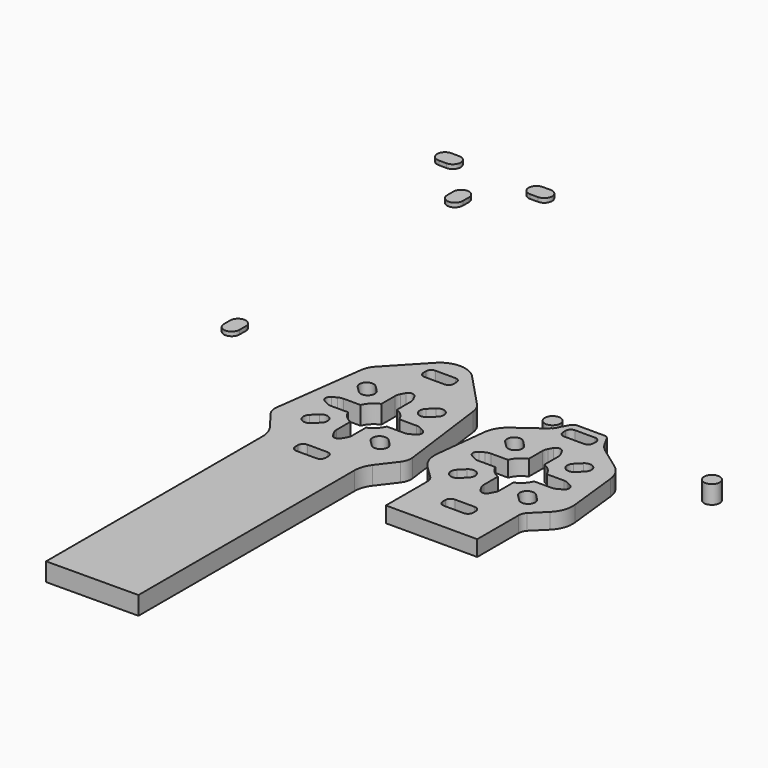
from build123d import *

# Parameters (mm, degrees)
F0_R     = 1.5
F1_DEPTH = 3.5
F3_DEPTH = 0.8
F5_DEPTH = 3


with BuildPart() as f1:
    # F0 (on Top) → F1 (new body)
    with BuildSketch(Plane.XY):
        with Locations((-15.25, 15.25)):
            Circle(F0_R)
        with Locations((15.25, 15.25)):
            Circle(F0_R)
        with BuildLine():
            Line((-24.117, -7.133688), (-26.392267, 10.177007))
            ThreePointArc((-26.392267, 10.177007), (-26.744927, 11.371718), (-27.448004, 12.400011))
            Line((-27.448004, 12.400011), (-33.622609, 18.947855))
            ThreePointArc((-33.622609, 18.947855), (-37.128731, 20.460747), (-40.634853, 18.947855))
            Line((-40.634853, 18.947855), (-46.809458, 12.400011))
            ThreePointArc((-46.809458, 12.400011), (-47.512534, 11.371718), (-47.865195, 10.177007))
            Line((-47.865195, 10.177007), (-50.140462, -7.133688))
            ThreePointArc((-50.140462, -7.133688), (-50.065993, -8.292947), (-49.556716, -9.337009))
            Line((-49.556716, -9.337009), (-46.94752, -12.778758))
            ThreePointArc((-46.94752, -12.778758), (-46.192655, -14.205994), (-45.931972, -15.799377))
            Line((-45.931972, -15.799377), (-45.931972, -21.649615))
            Line((-45.931972, -21.649615), (-45.931972, -67.606897))
            Line((-45.931972, -67.606897), (-28.325489, -67.508658))
            Line((-28.325489, -67.508658), (-28.325489, -21.649615))
            Line((-28.325489, -21.649615), (-28.325489, -15.799377))
            ThreePointArc((-28.325489, -15.799377), (-28.064807, -14.205994), (-27.309941, -12.778758))
            Line((-27.309941, -12.778758), (-24.700746, -9.337009))
            ThreePointArc((-24.700746, -9.337009), (-24.191469, -8.292947), (-24.117, -7.133688))
        make_face()
        with BuildLine():
            ThreePointArc((-40.033675, -14.705955), (-39.740781, -13.998848), (-39.033675, -13.705955))
            Line((-39.033675, -13.705955), (-35.223787, -13.705955))
            ThreePointArc((-35.223787, -13.705955), (-34.51668, -13.998848), (-34.223787, -14.705955))
            Line((-34.223787, -14.705955), (-34.223787, -15.318013))
            ThreePointArc((-34.223787, -15.318013), (-34.51668, -16.02512), (-35.223787, -16.318013))
            Line((-35.223787, -16.318013), (-39.033675, -16.318013))
            ThreePointArc((-39.033675, -16.318013), (-39.740781, -16.02512), (-40.033675, -15.318013))
            Line((-40.033675, -15.318013), (-40.033675, -14.705955))
        make_face(mode=Mode.SUBTRACT)
        with BuildLine():
            Line((-44.800839, -5.978532), (-43.740179, -4.917872))
            ThreePointArc((-43.740179, -4.917872), (-41.830991, -4.917872), (-41.830991, -6.827061))
            Line((-41.830991, -6.827061), (-42.891651, -7.887721))
            ThreePointArc((-42.891651, -7.887721), (-44.800839, -7.887721), (-44.800839, -5.978532))
        make_face(mode=Mode.SUBTRACT)
        with BuildLine():
            ThreePointArc((-32.426471, -6.827061), (-32.426471, -4.917872), (-30.517282, -4.917872))
            Line((-30.517282, -4.917872), (-29.456622, -5.978532))
            ThreePointArc((-29.456622, -5.978532), (-29.456622, -7.887721), (-31.365811, -7.887721))
            Line((-31.365811, -7.887721), (-32.426471, -6.827061))
        make_face(mode=Mode.SUBTRACT)
        with BuildLine():
            Line((-42.891651, 7.456496), (-41.830991, 6.395836))
            ThreePointArc((-41.830991, 6.395836), (-41.830991, 4.486648), (-43.740179, 4.486648))
            Line((-43.740179, 4.486648), (-44.800839, 5.547308))
            ThreePointArc((-44.800839, 5.547308), (-44.800839, 7.456496), (-42.891651, 7.456496))
        make_face(mode=Mode.SUBTRACT)
        with BuildLine():
            ThreePointArc((-33.420632, -1.715612), (-34.300304, -3.044039), (-35.628731, -3.923711))
            Line((-35.628731, -3.923711), (-35.628731, -7.19803))
            ThreePointArc((-35.628731, -7.19803), (-35.692517, -7.699105), (-35.879807, -8.168218))
            Line((-35.879807, -8.168218), (-36.316788, -8.955948))
            ThreePointArc((-36.316788, -8.955948), (-37.128731, -9.434041), (-37.940674, -8.955948))
            Line((-37.940674, -8.955948), (-38.377655, -8.168218))
            ThreePointArc((-38.377655, -8.168218), (-38.564945, -7.699105), (-38.628731, -7.19803))
            Line((-38.628731, -7.19803), (-38.628731, -3.923711))
            ThreePointArc((-38.628731, -3.923711), (-39.957158, -3.044039), (-40.83683, -1.715612))
            Line((-40.83683, -1.715612), (-44.111149, -1.715612))
            ThreePointArc((-44.111149, -1.715612), (-44.612224, -1.651826), (-45.081337, -1.464536))
            Line((-45.081337, -1.464536), (-45.869067, -1.027555))
            ThreePointArc((-45.869067, -1.027555), (-46.34716, -0.215612), (-45.869067, 0.596331))
            Line((-45.869067, 0.596331), (-45.081337, 1.033312))
            ThreePointArc((-45.081337, 1.033312), (-44.612224, 1.220602), (-44.111149, 1.284388))
            Line((-44.111149, 1.284388), (-40.83683, 1.284388))
            ThreePointArc((-40.83683, 1.284388), (-39.957158, 2.612815), (-38.628731, 3.492487))
            Line((-38.628731, 3.492487), (-38.628731, 6.766805))
            ThreePointArc((-38.628731, 6.766805), (-38.564945, 7.267881), (-38.377655, 7.736994))
            Line((-38.377655, 7.736994), (-37.940674, 8.524724))
            ThreePointArc((-37.940674, 8.524724), (-37.128731, 9.002817), (-36.316788, 8.524724))
            Line((-36.316788, 8.524724), (-35.879807, 7.736994))
            ThreePointArc((-35.879807, 7.736994), (-35.692517, 7.267881), (-35.628731, 6.766805))
            Line((-35.628731, 6.766805), (-35.628731, 3.492487))
            ThreePointArc((-35.628731, 3.492487), (-34.300304, 2.612815), (-33.420632, 1.284388))
            Line((-33.420632, 1.284388), (-30.146313, 1.284388))
            ThreePointArc((-30.146313, 1.284388), (-29.645238, 1.220602), (-29.176125, 1.033312))
            Line((-29.176125, 1.033312), (-28.388395, 0.596331))
            ThreePointArc((-28.388395, 0.596331), (-27.910302, -0.215612), (-28.388395, -1.027555))
            Line((-28.388395, -1.027555), (-29.176125, -1.464536))
            ThreePointArc((-29.176125, -1.464536), (-29.645238, -1.651826), (-30.146313, -1.715612))
            Line((-30.146313, -1.715612), (-33.420632, -1.715612))
        make_face(mode=Mode.SUBTRACT)
        with BuildLine():
            ThreePointArc((-35.223787, 16.947617), (-34.51668, 16.654724), (-34.223787, 15.947617))
            Line((-34.223787, 15.947617), (-34.223787, 15.335559))
            ThreePointArc((-34.223787, 15.335559), (-34.51668, 14.628452), (-35.223787, 14.335559))
            Line((-35.223787, 14.335559), (-39.033675, 14.335559))
            ThreePointArc((-39.033675, 14.335559), (-39.740781, 14.628452), (-40.033675, 15.335559))
            Line((-40.033675, 15.335559), (-40.033675, 15.947617))
            ThreePointArc((-40.033675, 15.947617), (-39.740781, 16.654724), (-39.033675, 16.947617))
            Line((-39.033675, 16.947617), (-35.223787, 16.947617))
        make_face(mode=Mode.SUBTRACT)
        with BuildLine():
            ThreePointArc((-30.517282, 4.486648), (-32.426471, 4.486648), (-32.426471, 6.395836))
            Line((-32.426471, 6.395836), (-31.365811, 7.456496))
            ThreePointArc((-31.365811, 7.456496), (-29.456622, 7.456496), (-29.456622, 5.547308))
            Line((-29.456622, 5.547308), (-30.517282, 4.486648))
        make_face(mode=Mode.SUBTRACT)
    extrude(amount=F1_DEPTH)

    # F4 (on Top) → F5 (join)
    with BuildSketch(Plane.XY):
        with BuildLine():
            ThreePointArc((-18.67353, -9.737199), (-18.296635, -10.356468), (-18.165249, -11.069406))
            Line((-18.165249, -11.069406), (-18.165249, -21))
            Line((-18.165249, -21), (-0.676106, -21))
            Line((-0.676106, -21), (-0.676106, -11.069406))
            ThreePointArc((-0.676106, -11.069406), (-0.54472, -10.356468), (-0.167825, -9.737199))
            Line((-0.167825, -9.737199), (2.307295, -7.294774))
            ThreePointArc((2.307295, -7.294774), (3.508246, -5.405714), (3.764575, -3.18195))
            Line((3.764575, -3.18195), (2.65911, 6.736242))
            ThreePointArc((2.65911, 6.736242), (2.01092, 8.698055), (0.624894, 10.230305))
            Line((0.624894, 10.230305), (-3.564298, 13.267746))
            ThreePointArc((-3.564298, 13.267746), (-4.401689, 14.020201), (-5.049508, 14.940929))
            Line((-5.049508, 14.940929), (-5.935708, 16.561889))
            ThreePointArc((-5.935708, 16.561889), (-6.303091, 16.942332), (-6.813139, 17.082186))
            Line((-6.813139, 17.082186), (-12.028217, 17.082186))
            ThreePointArc((-12.028217, 17.082186), (-12.538264, 16.942332), (-12.905648, 16.561889))
            Line((-12.905648, 16.561889), (-13.791847, 14.940929))
            ThreePointArc((-13.791847, 14.940929), (-14.439667, 14.020201), (-15.277057, 13.267746))
            Line((-15.277057, 13.267746), (-19.466249, 10.230305))
            ThreePointArc((-19.466249, 10.230305), (-20.852275, 8.698055), (-21.500465, 6.736242))
            Line((-21.500465, 6.736242), (-22.605931, -3.18195))
            ThreePointArc((-22.605931, -3.18195), (-22.349602, -5.405714), (-21.148651, -7.294774))
            Line((-21.148651, -7.294774), (-18.67353, -9.737199))
        make_face()
        with BuildLine():
            ThreePointArc((-12.325621, -14.056339), (-12.032728, -13.349233), (-11.325621, -13.056339))
            Line((-11.325621, -13.056339), (-7.515734, -13.056339))
            ThreePointArc((-7.515734, -13.056339), (-6.808627, -13.349233), (-6.515734, -14.056339))
            Line((-6.515734, -14.056339), (-6.515734, -14.668398))
            ThreePointArc((-6.515734, -14.668398), (-6.808627, -15.375505), (-7.515734, -15.668398))
            Line((-7.515734, -15.668398), (-11.325621, -15.668398))
            ThreePointArc((-11.325621, -15.668398), (-12.032728, -15.375505), (-12.325621, -14.668398))
            Line((-12.325621, -14.668398), (-12.325621, -14.056339))
        make_face(mode=Mode.SUBTRACT)
        with BuildLine():
            Line((-17.092786, -5.328917), (-16.032126, -4.268257))
            ThreePointArc((-16.032126, -4.268257), (-14.122938, -4.268257), (-14.122938, -6.177445))
            Line((-14.122938, -6.177445), (-15.183598, -7.238105))
            ThreePointArc((-15.183598, -7.238105), (-17.092786, -7.238105), (-17.092786, -5.328917))
        make_face(mode=Mode.SUBTRACT)
        with BuildLine():
            ThreePointArc((-4.718418, -6.177445), (-4.718418, -4.268257), (-2.809229, -4.268257))
            Line((-2.809229, -4.268257), (-1.748569, -5.328917))
            ThreePointArc((-1.748569, -5.328917), (-1.748569, -7.238105), (-3.657757, -7.238105))
            Line((-3.657757, -7.238105), (-4.718418, -6.177445))
        make_face(mode=Mode.SUBTRACT)
        with BuildLine():
            ThreePointArc((-5.712579, -1.065997), (-6.592251, -2.394424), (-7.920678, -3.274096))
            Line((-7.920678, -3.274096), (-7.920678, -6.548414))
            ThreePointArc((-7.920678, -6.548414), (-7.984464, -7.049489), (-8.171754, -7.518603))
            Line((-8.171754, -7.518603), (-8.608735, -8.306332))
            ThreePointArc((-8.608735, -8.306332), (-9.420678, -8.784425), (-10.232621, -8.306332))
            Line((-10.232621, -8.306332), (-10.669602, -7.518603))
            ThreePointArc((-10.669602, -7.518603), (-10.856892, -7.049489), (-10.920678, -6.548414))
            Line((-10.920678, -6.548414), (-10.920678, -3.274096))
            ThreePointArc((-10.920678, -3.274096), (-12.249105, -2.394424), (-13.128777, -1.065997))
            Line((-13.128777, -1.065997), (-16.403095, -1.065997))
            ThreePointArc((-16.403095, -1.065997), (-16.90417, -1.00221), (-17.373284, -0.814921))
            Line((-17.373284, -0.814921), (-18.161014, -0.37794))
            ThreePointArc((-18.161014, -0.37794), (-18.639107, 0.434003), (-18.161014, 1.245946))
            Line((-18.161014, 1.245946), (-17.373284, 1.682927))
            ThreePointArc((-17.373284, 1.682927), (-16.90417, 1.870217), (-16.403095, 1.934003))
            Line((-16.403095, 1.934003), (-13.128777, 1.934003))
            ThreePointArc((-13.128777, 1.934003), (-12.249105, 3.26243), (-10.920678, 4.142103))
            Line((-10.920678, 4.142103), (-10.920678, 7.416421))
            ThreePointArc((-10.920678, 7.416421), (-10.856892, 7.917496), (-10.669602, 8.386609))
            Line((-10.669602, 8.386609), (-10.232621, 9.174339))
            ThreePointArc((-10.232621, 9.174339), (-9.420678, 9.652432), (-8.608735, 9.174339))
            Line((-8.608735, 9.174339), (-8.171754, 8.386609))
            ThreePointArc((-8.171754, 8.386609), (-7.984464, 7.917496), (-7.920678, 7.416421))
            Line((-7.920678, 7.416421), (-7.920678, 4.142103))
            ThreePointArc((-7.920678, 4.142103), (-6.592251, 3.26243), (-5.712579, 1.934003))
            Line((-5.712579, 1.934003), (-2.43826, 1.934003))
            ThreePointArc((-2.43826, 1.934003), (-1.937185, 1.870217), (-1.468072, 1.682927))
            Line((-1.468072, 1.682927), (-0.680342, 1.245946))
            ThreePointArc((-0.680342, 1.245946), (-0.202249, 0.434003), (-0.680342, -0.37794))
            Line((-0.680342, -0.37794), (-1.468072, -0.814921))
            ThreePointArc((-1.468072, -0.814921), (-1.937185, -1.00221), (-2.43826, -1.065997))
            Line((-2.43826, -1.065997), (-5.712579, -1.065997))
        make_face(mode=Mode.SUBTRACT)
        with BuildLine():
            Line((-15.183598, 8.106112), (-14.122938, 7.045452))
            ThreePointArc((-14.122938, 7.045452), (-14.122938, 5.136263), (-16.032126, 5.136263))
            Line((-16.032126, 5.136263), (-17.092786, 6.196924))
            ThreePointArc((-17.092786, 6.196924), (-17.092786, 8.106112), (-15.183598, 8.106112))
        make_face(mode=Mode.SUBTRACT)
        with BuildLine():
            ThreePointArc((-2.809229, 5.136263), (-4.718418, 5.136263), (-4.718418, 7.045452))
            Line((-4.718418, 7.045452), (-3.657757, 8.106112))
            ThreePointArc((-3.657757, 8.106112), (-1.748569, 8.106112), (-1.748569, 6.196924))
            Line((-1.748569, 6.196924), (-2.809229, 5.136263))
        make_face(mode=Mode.SUBTRACT)
        with BuildLine():
            ThreePointArc((-7.483943, 15.677767), (-6.776836, 15.384874), (-6.483943, 14.677767))
            Line((-6.483943, 14.677767), (-6.483943, 14.065708))
            ThreePointArc((-6.483943, 14.065708), (-6.776836, 13.358601), (-7.483943, 13.065708))
            Line((-7.483943, 13.065708), (-11.29383, 13.065708))
            ThreePointArc((-11.29383, 13.065708), (-12.000937, 13.358601), (-12.29383, 14.065708))
            Line((-12.29383, 14.065708), (-12.29383, 14.677767))
            ThreePointArc((-12.29383, 14.677767), (-12.000937, 15.384874), (-11.29383, 15.677767))
            Line((-11.29383, 15.677767), (-7.483943, 15.677767))
        make_face(mode=Mode.SUBTRACT)
    extrude(amount=F5_DEPTH)


with BuildPart() as f3:
    # F2 (on face) → F3 (new body)
    with BuildSketch(Plane.XY.offset(3.5)):
        with BuildLine():
            Line((-69.210678, 7.784388), (-69.210678, 9.284388))
            ThreePointArc((-69.210678, 9.284388), (-70.710678, 10.784388), (-72.210678, 9.284388))
            Line((-72.210678, 9.284388), (-72.210678, 7.784388))
            ThreePointArc((-72.210678, 7.784388), (-70.710678, 6.284388), (-69.210678, 7.784388))
        make_face()
        with BuildLine():
            ThreePointArc((-72.210678, 61.210678), (-70.710678, 59.710678), (-69.210678, 61.210678))
            Line((-69.210678, 61.210678), (-69.210678, 62.710678))
            ThreePointArc((-69.210678, 62.710678), (-70.710678, 64.210678), (-72.210678, 62.710678))
            Line((-72.210678, 62.710678), (-72.210678, 61.210678))
        make_face()
        with BuildLine():
            ThreePointArc((-61.210678, 69.210678), (-59.710678, 70.710678), (-61.210678, 72.210678))
            Line((-61.210678, 72.210678), (-62.710678, 72.210678))
            ThreePointArc((-62.710678, 72.210678), (-64.210678, 70.710678), (-62.710678, 69.210678))
            Line((-62.710678, 69.210678), (-61.210678, 69.210678))
        make_face()
        with BuildLine():
            Line((-78.710678, 72.210678), (-80.210678, 72.210678))
            ThreePointArc((-80.210678, 72.210678), (-81.710678, 70.710678), (-80.210678, 69.210678))
            Line((-80.210678, 69.210678), (-78.710678, 69.210678))
            ThreePointArc((-78.710678, 69.210678), (-77.210678, 70.710678), (-78.710678, 72.210678))
        make_face()
    extrude(amount=F3_DEPTH)


solid = Compound([f1.part, f3.part])
